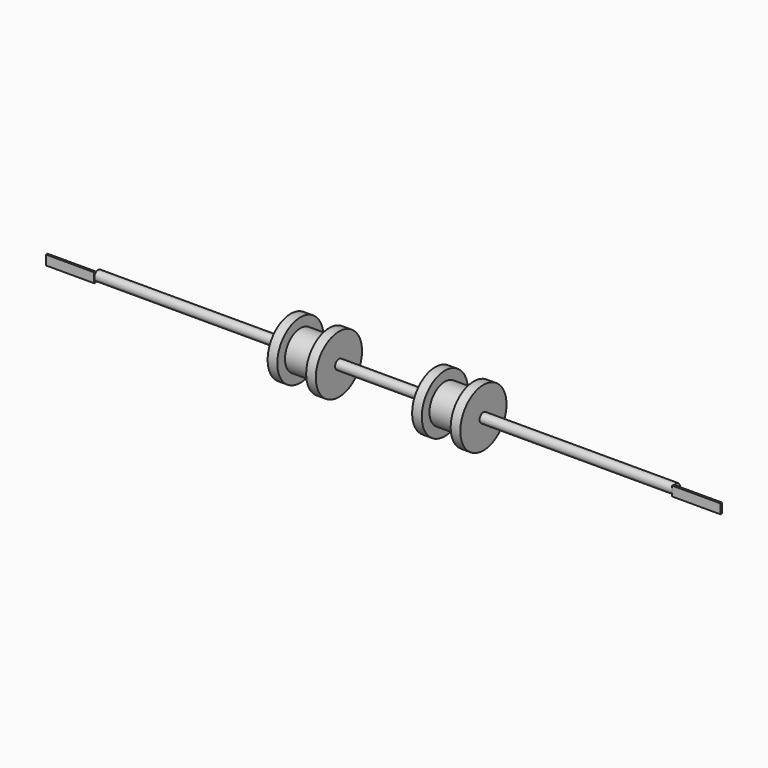
from build123d import *

# Parameters (mm, degrees)
F3_DEPTH = 50
F5_DEPTH = 50


with BuildPart() as f1:
    # F0 (on Top) → F1 (revolve)
    with BuildSketch(Plane.XY):
        Polygon((-300, 5), (-300, 0), (-100, 0), (-50, 0), (50, 0), (100, 0), (300, 0), (300, 5), align=None)
        Polygon((-50, 0), (-100, 0), (-100, -25), (-90, -25), (-90, -15), (-60, -15), (-60, -25), (-50, -25), align=None)
        Polygon((100, 0), (50, 0), (50, -25), (60, -25), (60, -15), (90, -15), (90, -25), (100, -25), align=None)
    revolve(axis=Axis((0, 5, 0), (1, 0, 0)))

    # F2 (on face) → F3 (join)
    with BuildSketch(Plane(origin=(-300, 0, 0), x_dir=(0, -1, 0), z_dir=(-1, 0, 0))):
        with BuildLine():
            Line((0, -5.2596899241), (0, 0))
            ThreePointArc((0, 0), (-0.527864045, -2.2360679775), (-2, -4))
            Line((-2, -4), (-2, -5.2596899241))
            Line((-2, -5.2596899241), (0, -5.2596899241))
        make_face()
        with BuildLine():
            ThreePointArc((0, 0), (-0.527864045, 2.2360679775), (-2, 4))
            Line((-2, 4), (-2, -4))
            ThreePointArc((-2, -4), (-0.527864045, -2.2360679775), (0, 0))
        make_face()
        with BuildLine():
            Line((0, 4.7403100759), (-2, 4.7403100759))
            Line((-2, 4.7403100759), (-2, 4))
            ThreePointArc((-2, 4), (-0.527864045, 2.2360679775), (0, 0))
            Line((0, 0), (0, 4.7403100759))
        make_face()
    extrude(amount=F3_DEPTH)

    # F4 (on face) → F5 (join)
    with BuildSketch(Plane.YZ.offset(300)):
        with BuildLine():
            ThreePointArc((2, -4), (0.527864045, -2.2360679775), (0, 0))
            Line((0, 0), (0, -5))
            Line((0, -5), (2, -5))
            Line((2, -5), (2, -4))
        make_face()
        with BuildLine():
            Line((2, 5), (0, 5))
            Line((0, 5), (0, 0))
            ThreePointArc((0, 0), (0.527864045, 2.2360679775), (2, 4))
            Line((2, 4), (2, 5))
        make_face()
        with BuildLine():
            ThreePointArc((2, 4), (0.527864045, 2.2360679775), (0, 0))
            ThreePointArc((0, 0), (0.527864045, -2.2360679775), (2, -4))
            Line((2, -4), (2, 4))
        make_face()
    extrude(amount=F5_DEPTH)


solid = f1.part
